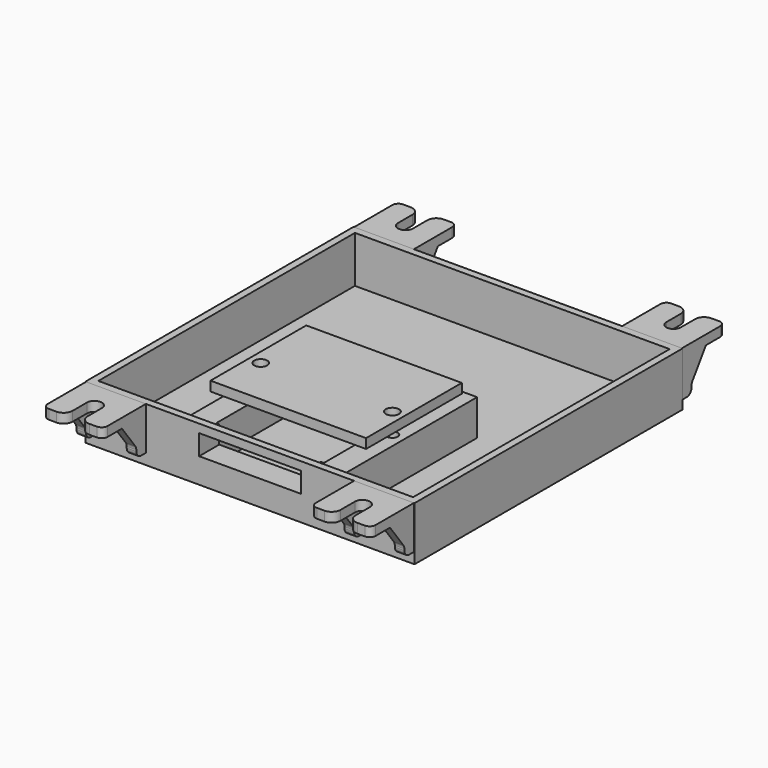
from build123d import *

# Parameters (mm, degrees)
SKETCH_W                = 55
SKETCH_H                = 56
PAD_DEPTH               = 9
SKETCH012_W             = 52.6
SKETCH012_H             = 53.6
POCKET_DEPTH            = 7.8
SKETCH013_W             = 26
SKETCH013_H             = 30
PAD010_DEPTH            = 6
SKETCH014_W             = 18
SKETCH014_H             = 6
POCKET001_DEPTH         = 6
SKETCH015_W             = 18
SKETCH015_H             = 22
POCKET002_DEPTH         = 5
SKETCH016_W             = 17
SKETCH016_H             = 3.4
POCKET003_DEPTH         = 5
SKETCH017_R             = 0.9
POCKET004_DEPTH         = 5
PAD002_DEPTH            = 1.6
PAD003_DEPTH            = 1.6
LINEARPATTERN_COUNT     = 2
LINEARPATTERN_PITCH     = 8.4
FILLET_R                = 1
FILLET001_R             = 1
FILLET002_R             = 1
FILLET003_R             = 1.5
BODY001_PLACEMENT_ANGLE = 90
PAD004_DEPTH            = 1.6
PAD005_DEPTH            = 1.6
LINEARPATTERN001_COUNT  = 2
LINEARPATTERN001_PITCH  = 8.4
FILLET004_R             = 1
FILLET005_R             = 1
FILLET006_R             = 1
FILLET007_R             = 1.5
BODY002_PLACEMENT_ANGLE = 90
PAD006_DEPTH            = 1.6
PAD007_DEPTH            = 1.6
LINEARPATTERN002_COUNT  = 2
LINEARPATTERN002_PITCH  = 8.4
FILLET008_R             = 1
FILLET009_R             = 1
FILLET010_R             = 1
FILLET011_R             = 1.5
BODY003_PLACEMENT_ANGLE = 90
PAD008_DEPTH            = 1.6
PAD009_DEPTH            = 1.6
LINEARPATTERN003_COUNT  = 2
LINEARPATTERN003_PITCH  = 8.4
FILLET012_R             = 1
FILLET013_R             = 1
FILLET014_R             = 1
FILLET015_R             = 1.5
BODY004_PLACEMENT_ANGLE = 90
SKETCH018_W             = 26
SKETCH018_H             = 20
SKETCH018_R             = 1.1
PAD011_DEPTH            = 1.6


with BuildPart() as body:
    # Sketch → Pad (new body)
    with BuildSketch(Plane.XY):
        Rectangle(SKETCH_W, SKETCH_H)
    extrude(amount=PAD_DEPTH)

    # Sketch012 (on Face6 of Pad) → Pocket (cut)
    with BuildSketch(Plane.XY.offset(9)):
        Rectangle(SKETCH012_W, SKETCH012_H)
    extrude(amount=-POCKET_DEPTH, mode=Mode.SUBTRACT)

    # Sketch013 (on Face11 of Pocket) → Pad010 (join)
    with BuildSketch(Plane.XY.offset(1.2)):
        with Locations((0, -11.8)):
            Rectangle(SKETCH013_W, SKETCH013_H)
    extrude(amount=PAD010_DEPTH)

    # Sketch014 (on Face13 of Pad010) → Pocket001 (cut)
    with BuildSketch(Plane.XY.offset(7.2)):
        with Locations((0, -20.8)):
            Rectangle(SKETCH014_W, SKETCH014_H)
    extrude(amount=-POCKET001_DEPTH, mode=Mode.SUBTRACT)

    # Sketch015 (on Face13 of Pocket001) → Pocket002 (cut)
    with BuildSketch(Plane.XY.offset(7.2)):
        with Locations((0, -6.8)):
            Rectangle(SKETCH015_W, SKETCH015_H)
    extrude(amount=-POCKET002_DEPTH, mode=Mode.SUBTRACT)

    # Sketch016 (on Face6 of Pocket002) → Pocket003 (cut)
    with BuildSketch(Plane.XZ.offset(28)):
        with Locations((0, 5.9)):
            Rectangle(SKETCH016_W, SKETCH016_H)
    extrude(amount=-POCKET003_DEPTH, mode=Mode.SUBTRACT)

    # Sketch017 (on DatumPlane) → Pocket004 (cut)
    with BuildSketch(Plane.XY.offset(7.2)):
        with Locations((-11, -12)):
            Circle(SKETCH017_R)
        with Locations((11, -12)):
            Circle(SKETCH017_R)
    extrude(amount=-POCKET004_DEPTH, mode=Mode.SUBTRACT)


with BuildPart() as tab1:
    # Sketch004 → Pad002 (new body)
    with BuildSketch(Plane.XY):
        with BuildLine():
            Line((-4.5, 5), (4.5, 5))
            Line((4.5, 5), (4.5, 1.25))
            Line((0, 1.25), (4.5, 1.25))
            ThreePointArc((0, 1.25), (-1.25, 0), (0, -1.25))
            Line((4.5, -1.25), (0, -1.25))
            Line((4.5, -1.25), (4.5, -5))
            Line((4.5, -5), (-4.5, -5))
            Line((-4.5, -5), (-4.5, 5))
        make_face()
    extrude(amount=PAD002_DEPTH)

    # Sketch005 (on DatumPlane) → Pad003 (join)
    with BuildSketch(Plane.XZ.offset(5)):
        Polygon((-4.5, 0), (-4.5, -5.6), (-2.5, -5.6), (-2.5, -4), (0.5, 0), align=None)
    pad003 = extrude(amount=-PAD003_DEPTH)

    # LinearPattern: Pad003 ×2
    with Locations(*[(0, i * LINEARPATTERN_PITCH, 0) for i in range(1, LINEARPATTERN_COUNT)]):
        add(pad003)

    # Fillet
    fillet_edges = [tab1.edges().sort_by_distance(p)[0] for p in [
        (-2.5, -4.2, -5.6),
        (-2.5, 4.2, -5.6),
    ]]
    fillet(fillet_edges, radius=FILLET_R)

    # Fillet001
    fillet001_edges = [tab1.edges().sort_by_distance(p)[0] for p in [
        (-2.5, -4.2, -4),
        (-2.5, 4.2, -4),
    ]]
    fillet(fillet001_edges, radius=FILLET001_R)

    # Fillet002
    fillet002_edges = [tab1.edges().sort_by_distance(p)[0] for p in [
        (4.5, -5, 0.8),
        (4.5, 5, 0.8),
    ]]
    fillet(fillet002_edges, radius=FILLET002_R)

    # Fillet003
    fillet003_edges = [tab1.edges().sort_by_distance(p)[0] for p in [
        (4.5, -1.25, 0.8),
        (4.5, 1.25, 0.8),
    ]]
    fillet(fillet003_edges, radius=FILLET003_R)


with BuildPart() as tab1_1:
    # Body001 placement: moved
    add(tab1.part.moved(Location((22.4, -32.5, 7.4))).rotate(Axis((22.4, -32.5, 7.4), (0, 0, -1)), BODY001_PLACEMENT_ANGLE))


with BuildPart() as tab2:
    # Sketch006 → Pad004 (new body)
    with BuildSketch(Plane.XY):
        with BuildLine():
            Line((-4.5, 5), (4.5, 5))
            Line((4.5, 5), (4.5, 1.2))
            Line((0, 1.2), (4.5, 1.2))
            ThreePointArc((0, 1.2), (-1.2, 0), (0, -1.2))
            Line((4.5, -1.2), (0, -1.2))
            Line((4.5, -1.2), (4.5, -5))
            Line((4.5, -5), (-4.5, -5))
            Line((-4.5, -5), (-4.5, 5))
        make_face()
    extrude(amount=PAD004_DEPTH)

    # Sketch007 (on DatumPlane) → Pad005 (join)
    with BuildSketch(Plane.XZ.offset(5)):
        Polygon((-4.5, 0), (-4.5, -6), (-2.5, -6), (-2.5, -4.4), (0.5, 0), align=None)
    pad005 = extrude(amount=-PAD005_DEPTH)

    # LinearPattern001: Pad005 ×2
    with Locations(*[(0, i * LINEARPATTERN001_PITCH, 0) for i in range(1, LINEARPATTERN001_COUNT)]):
        add(pad005)

    # Fillet004
    fillet004_edges = [tab2.edges().sort_by_distance(p)[0] for p in [
        (-2.5, -4.2, -6),
        (-2.5, 4.2, -6),
    ]]
    fillet(fillet004_edges, radius=FILLET004_R)

    # Fillet005
    fillet005_edges = [tab2.edges().sort_by_distance(p)[0] for p in [
        (-2.5, -4.2, -4.4),
        (-2.5, 4.2, -4.4),
    ]]
    fillet(fillet005_edges, radius=FILLET005_R)

    # Fillet006
    fillet006_edges = [tab2.edges().sort_by_distance(p)[0] for p in [
        (4.5, -5, 0.8),
        (4.5, 5, 0.8),
    ]]
    fillet(fillet006_edges, radius=FILLET006_R)

    # Fillet007
    fillet007_edges = [tab2.edges().sort_by_distance(p)[0] for p in [
        (4.5, -1.2, 0.8),
        (4.5, 1.2, 0.8),
    ]]
    fillet(fillet007_edges, radius=FILLET007_R)


with BuildPart() as tab2_1:
    # Body002 placement: moved
    add(tab2.part.moved(Location((22.4, 32.5, 7.4))).rotate(Axis((22.4, 32.5, 7.4), (0, 0, 1)), BODY002_PLACEMENT_ANGLE))


with BuildPart() as tab3:
    # Sketch008 → Pad006 (new body)
    with BuildSketch(Plane.XY):
        with BuildLine():
            Line((-4.5, 5), (4.5, 5))
            Line((4.5, 5), (4.5, 1.25))
            Line((0, 1.25), (4.5, 1.25))
            ThreePointArc((0, 1.25), (-1.25, 0), (0, -1.25))
            Line((4.5, -1.25), (0, -1.25))
            Line((4.5, -1.25), (4.5, -5))
            Line((4.5, -5), (-4.5, -5))
            Line((-4.5, -5), (-4.5, 5))
        make_face()
    extrude(amount=PAD006_DEPTH)

    # Sketch009 (on DatumPlane) → Pad007 (join)
    with BuildSketch(Plane.XZ.offset(5)):
        Polygon((-4.5, 0), (-4.5, -6), (-2.5, -6), (-2.5, -4.4), (0.5, 0), align=None)
    pad007 = extrude(amount=-PAD007_DEPTH)

    # LinearPattern002: Pad007 ×2
    with Locations(*[(0, i * LINEARPATTERN002_PITCH, 0) for i in range(1, LINEARPATTERN002_COUNT)]):
        add(pad007)

    # Fillet008
    fillet008_edges = [tab3.edges().sort_by_distance(p)[0] for p in [
        (-2.5, -4.2, -6),
        (-2.5, 4.2, -6),
    ]]
    fillet(fillet008_edges, radius=FILLET008_R)

    # Fillet009
    fillet009_edges = [tab3.edges().sort_by_distance(p)[0] for p in [
        (-2.5, -4.2, -4.4),
        (-2.5, 4.2, -4.4),
    ]]
    fillet(fillet009_edges, radius=FILLET009_R)

    # Fillet010
    fillet010_edges = [tab3.edges().sort_by_distance(p)[0] for p in [
        (4.5, -5, 0.8),
        (4.5, 5, 0.8),
    ]]
    fillet(fillet010_edges, radius=FILLET010_R)

    # Fillet011
    fillet011_edges = [tab3.edges().sort_by_distance(p)[0] for p in [
        (4.5, -1.25, 0.8),
        (4.5, 1.25, 0.8),
    ]]
    fillet(fillet011_edges, radius=FILLET011_R)


with BuildPart() as tab3_1:
    # Body003 placement: moved
    add(tab3.part.moved(Location((-22.4, 32.5, 7.4))).rotate(Axis((-22.4, 32.5, 7.4), (0, 0, 1)), BODY003_PLACEMENT_ANGLE))


with BuildPart() as tab4:
    # Sketch010 → Pad008 (new body)
    with BuildSketch(Plane.XY):
        with BuildLine():
            Line((-4.5, 5), (4.5, 5))
            Line((4.5, 5), (4.5, 1.25))
            Line((0, 1.25), (4.5, 1.25))
            ThreePointArc((0, 1.25), (-1.25, 0), (0, -1.25))
            Line((4.5, -1.25), (0, -1.25))
            Line((4.5, -1.25), (4.5, -5))
            Line((4.5, -5), (-4.5, -5))
            Line((-4.5, -5), (-4.5, 5))
        make_face()
    extrude(amount=PAD008_DEPTH)

    # Sketch011 (on DatumPlane) → Pad009 (join)
    with BuildSketch(Plane.XZ.offset(5)):
        Polygon((-4.5, 0), (-4.5, -5.6), (-2.5, -5.6), (-2.5, -4), (0.5, 0), align=None)
    pad009 = extrude(amount=-PAD009_DEPTH)

    # LinearPattern003: Pad009 ×2
    with Locations(*[(0, i * LINEARPATTERN003_PITCH, 0) for i in range(1, LINEARPATTERN003_COUNT)]):
        add(pad009)

    # Fillet012
    fillet012_edges = [tab4.edges().sort_by_distance(p)[0] for p in [
        (-2.5, -4.2, -5.6),
        (-2.5, 4.2, -5.6),
    ]]
    fillet(fillet012_edges, radius=FILLET012_R)

    # Fillet013
    fillet013_edges = [tab4.edges().sort_by_distance(p)[0] for p in [
        (-2.5, -4.2, -4),
        (-2.5, 4.2, -4),
    ]]
    fillet(fillet013_edges, radius=FILLET013_R)

    # Fillet014
    fillet014_edges = [tab4.edges().sort_by_distance(p)[0] for p in [
        (4.5, -5, 0.8),
        (4.5, 5, 0.8),
    ]]
    fillet(fillet014_edges, radius=FILLET014_R)

    # Fillet015
    fillet015_edges = [tab4.edges().sort_by_distance(p)[0] for p in [
        (4.5, -1.25, 0.8),
        (4.5, 1.25, 0.8),
    ]]
    fillet(fillet015_edges, radius=FILLET015_R)


with BuildPart() as tab4_1:
    # Body004 placement: moved
    add(tab4.part.moved(Location((-22.4, -32.5, 7.4))).rotate(Axis((-22.4, -32.5, 7.4), (0, 0, -1)), BODY004_PLACEMENT_ANGLE))


with BuildPart() as tampa:
    # Sketch018 → Pad011 (new body)
    with BuildSketch(Plane.XY):
        Rectangle(SKETCH018_W, SKETCH018_H)
        with Locations((-11, -2)):
            Circle(SKETCH018_R, mode=Mode.SUBTRACT)
        with Locations((11, -2)):
            Circle(SKETCH018_R, mode=Mode.SUBTRACT)
    extrude(amount=PAD011_DEPTH)


with BuildPart() as tampa_1:
    # Body005 placement: moved
    add(tampa.part.moved(Location((0, -10, 9))))


solid = Compound([body.part, tab1_1.part, tab2_1.part, tab3_1.part, tab4_1.part, tampa_1.part])
